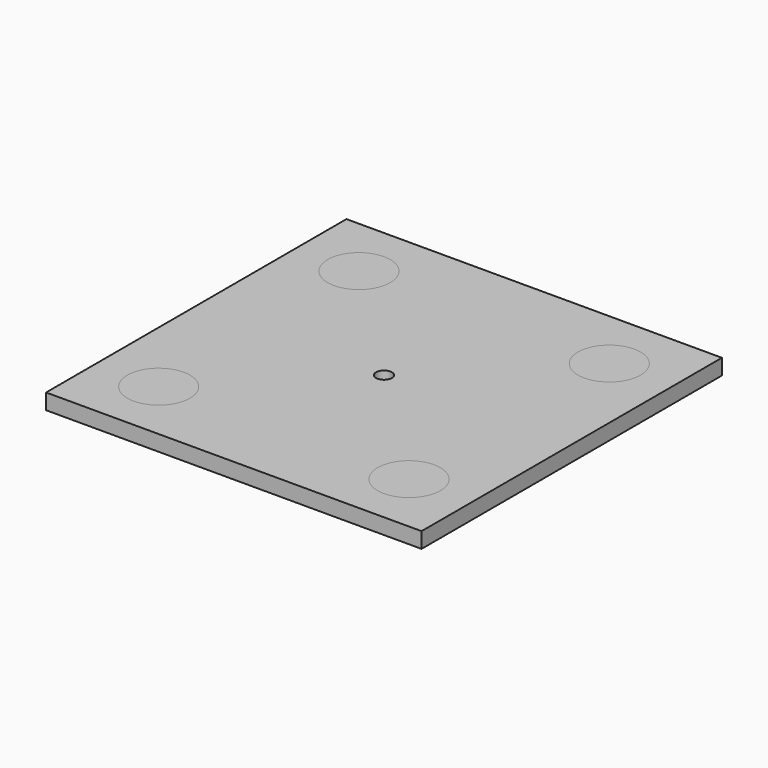
from build123d import *

# Parameters (mm, degrees)
F0_W     = 609.6
F0_H     = 609.6
F0_R     = 50.8
F0_R_2   = 12.827
F1_DEPTH = 25.4
F2_DEPTH = 25.4


with BuildPart() as f1:
    # F0 (on Top) → F1 (new body)
    with BuildSketch(Plane.XY):
        Rectangle(F0_W, F0_H)
        with Locations((-203.2, -203.2)):
            Circle(F0_R, mode=Mode.SUBTRACT)
        with Locations((203.2, -203.2)):
            Circle(F0_R, mode=Mode.SUBTRACT)
        with Locations((-203.2, 203.2)):
            Circle(F0_R, mode=Mode.SUBTRACT)
        Circle(F0_R_2, mode=Mode.SUBTRACT)
        with Locations((203.2, 203.2)):
            Circle(F0_R, mode=Mode.SUBTRACT)
    extrude(amount=F1_DEPTH)


with BuildPart() as f2:
    # F0 (on Top) → F2 (new body)
    with BuildSketch(Plane.XY):
        with Locations((-203.2, -203.2)):
            Circle(F0_R)
        with Locations((203.2, -203.2)):
            Circle(F0_R)
        with Locations((203.2, 203.2)):
            Circle(F0_R)
        with Locations((-203.2, 203.2)):
            Circle(F0_R)
    extrude(amount=F2_DEPTH)


solid = Compound([f1.part, f2.part])
